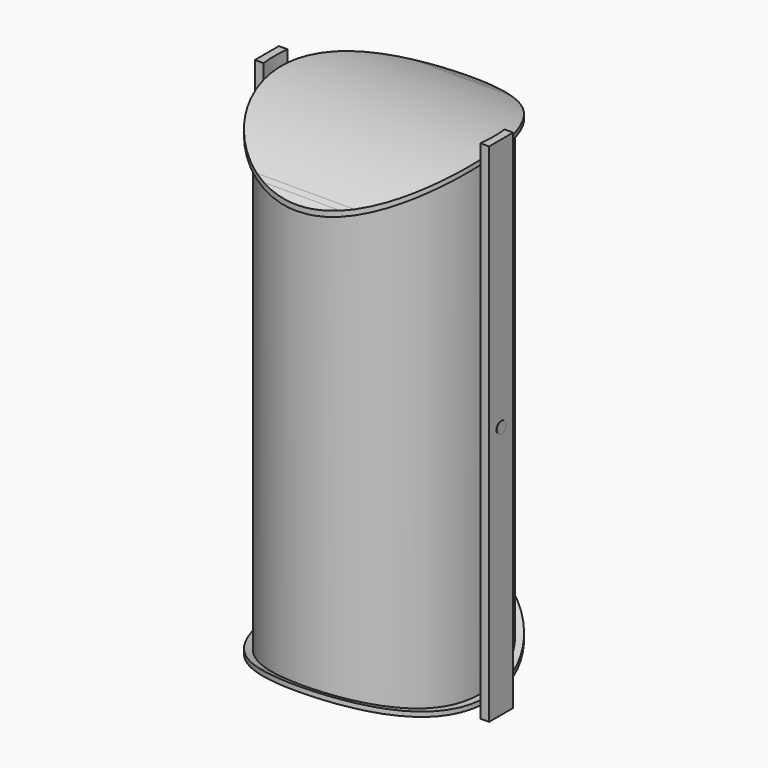
from build123d import *

# Parameters (mm, degrees)
F1_DEPTH = 50
F3_DEPTH = 150
F0_R     = 2.5
F5_DEPTH = 50
F6_DEPTH = 110
F7_DEPTH = 90
F8_DEPTH = 51


with BuildPart() as f1:
    # F0 (on Right) → F1 (new body, symmetric)
    with BuildSketch(Plane.YZ):
        with BuildLine():
            Line((-57.5, 87.856416954), (-57.5, 85.4561290956))
            ThreePointArc((-57.5, 85.4561290956), (-56.0084333196, 86.4410515732), (-54.5, 87.3999427917))
            Line((-54.5, 87.3999427917), (-54.5, 89.748259036))
            ThreePointArc((-54.5, 89.748259036), (-56.0079884179, 88.8150056769), (-57.5, 87.856416954))
        make_face()
        with BuildLine():
            Line((-54.5, 89.748259036), (-54.5, 87.3999427917))
            ThreePointArc((-54.5, 87.3999427917), (-53.5034535601, 88.0135242855), (-52.5, 88.6157435222))
            Line((-52.5, 88.6157435222), (-52.5, 90.9326673974))
            ThreePointArc((-52.5, 90.9326673974), (-53.5032775238, 90.3459976657), (-54.5, 89.748259036))
        make_face()
        with BuildLine():
            Line((-52.5, 90.9326673974), (-52.5, 88.6157435222))
            ThreePointArc((-52.5, 88.6157435222), (-10.9911177379, 102.4118905737), (32.5, 97.7381706397))
            Line((32.5, 97.7381706397), (32.5, 99.8436277386))
            ThreePointArc((32.5, 99.8436277386), (-10.947662013, 104.4277199619), (-52.5, 90.9326673974))
        make_face()
        with BuildLine():
            Line((32.5, 99.8436277386), (32.5, 97.7381706397))
            ThreePointArc((32.5, 97.7381706397), (33.5017657821, 97.3993413195), (34.5, 97.0502447189))
            Line((34.5, 97.0502447189), (34.5, 99.1703080564))
            ThreePointArc((34.5, 99.1703080564), (33.5016915968, 99.5119925444), (32.5, 99.8436277386))
        make_face()
        with BuildLine():
            Line((34.5, 99.1703080564), (34.5, 97.0502447189))
            ThreePointArc((34.5, 97.0502447189), (36.0043496943, 96.5022632019), (37.5, 95.9309647611))
            Line((37.5, 95.9309647611), (37.5, 98.0752262297))
            ThreePointArc((37.5, 98.0752262297), (36.0041636627, 98.6341735858), (34.5, 99.1703080564))
        make_face()
    extrude(amount=F1_DEPTH, both=True)


with BuildPart() as f1b:
    # F0 (on Right) → F1, piece 2 (new body, symmetric)
    with BuildSketch(Plane.YZ):
        with BuildLine():
            ThreePointArc((37.5, -85.4561290956), (36.0084333196, -86.4410515732), (34.5, -87.3999427917))
            Line((34.5, -87.3999427917), (34.5, -89.748259036))
            ThreePointArc((34.5, -89.748259036), (36.0079884179, -88.8150056769), (37.5, -87.856416954))
            Line((37.5, -87.856416954), (37.5, -85.4561290956))
        make_face()
        with BuildLine():
            ThreePointArc((34.5, -87.3999427917), (33.5034535601, -88.0135242855), (32.5, -88.6157435222))
            Line((32.5, -88.6157435222), (32.5, -90.9326673974))
            ThreePointArc((32.5, -90.9326673974), (33.5032775238, -90.3459976657), (34.5, -89.748259036))
            Line((34.5, -89.748259036), (34.5, -87.3999427917))
        make_face()
        with BuildLine():
            ThreePointArc((32.5, -88.6157435222), (-9.0088822621, -102.4118905737), (-52.5, -97.7381706397))
            Line((-52.5, -97.7381706397), (-52.5, -99.8436277386))
            ThreePointArc((-52.5, -99.8436277386), (-9.052337987, -104.4277199619), (32.5, -90.9326673974))
            Line((32.5, -90.9326673974), (32.5, -88.6157435222))
        make_face()
        with BuildLine():
            Line((-54.5, -99.1703080564), (-54.5, -97.0502447189))
            ThreePointArc((-54.5, -97.0502447189), (-56.0043496943, -96.5022632019), (-57.5, -95.9309647611))
            Line((-57.5, -95.9309647611), (-57.5, -98.0752262297))
            ThreePointArc((-57.5, -98.0752262297), (-56.0041636627, -98.6341735858), (-54.5, -99.1703080564))
        make_face()
        with BuildLine():
            ThreePointArc((-52.5, -97.7381706397), (-53.5017657821, -97.3993413195), (-54.5, -97.0502447189))
            Line((-54.5, -97.0502447189), (-54.5, -99.1703080564))
            ThreePointArc((-54.5, -99.1703080564), (-53.5016915968, -99.5119925444), (-52.5, -99.8436277386))
            Line((-52.5, -99.8436277386), (-52.5, -97.7381706397))
        make_face()
    extrude(amount=F1_DEPTH, both=True)


with BuildPart() as f3_tool:
    # F2 (on Top) → F3 (new body, symmetric)
    with BuildSketch(Plane.XY):
        with BuildLine():
            ThreePointArc((47.0510721907, -16.5151059628), (47.3876351439, -13.2652772426), (47.5, -10))
            ThreePointArc((47.5, -10), (47.3876351439, -6.7347227574), (47.0510721907, -3.4848940372))
            Line((47.0510721907, -3.4848940372), (-47.0510721907, -3.4848940372))
            ThreePointArc((-47.0510721907, -3.4848940372), (-47.5, -10), (-47.0510721907, -16.5151059628))
            Line((-47.0510721907, -16.5151059628), (47.0510721907, -16.5151059628))
        make_face()
        with BuildLine():
            ThreePointArc((-47.0510721907, -16.5151059628), (0, -57.5), (47.0510721907, -16.5151059628))
            Line((47.0510721907, -16.5151059628), (-47.0510721907, -16.5151059628))
        make_face()
        with BuildLine():
            Line((-47.0510721907, -3.4848940372), (47.0510721907, -3.4848940372))
            ThreePointArc((47.0510721907, -3.4848940372), (0, 37.5), (-47.0510721907, -3.4848940372))
        make_face()
    extrude(amount=F3_DEPTH, both=True)


with BuildPart() as f1_1:
    add(f1.part)

    # F3: intersect by f3_tool
    add(f3_tool.part, mode=Mode.INTERSECT)



with BuildPart() as f1b_1:
    add(f1b.part)

    # F3: intersect by f3_tool
    add(f3_tool.part, mode=Mode.INTERSECT)


with BuildPart() as f4:
    # F0 (on Right) → F4 (revolve)
    with BuildSketch(Plane.YZ):
        with BuildLine():
            Line((32.5, 114.9460300803), (32.5, 99.8436277386))
            ThreePointArc((32.5, 99.8436277386), (33.5016915968, 99.5119925444), (34.5, 99.1703080564))
            Line((34.5, 99.1703080564), (34.5, 114.9460300803))
            Line((34.5, 114.9460300803), (32.5, 114.9460300803))
        make_face()
        with BuildLine():
            ThreePointArc((34.5, 97.0502447189), (33.5017657821, 97.3993413195), (32.5, 97.7381706397))
            Line((32.5, 97.7381706397), (32.5, -88.6157435222))
            ThreePointArc((32.5, -88.6157435222), (33.5034535601, -88.0135242855), (34.5, -87.3999427917))
            Line((34.5, -87.3999427917), (34.5, 97.0502447189))
        make_face()
        with BuildLine():
            Line((32.5, 99.8436277386), (32.5, 97.7381706397))
            ThreePointArc((32.5, 97.7381706397), (33.5017657821, 97.3993413195), (34.5, 97.0502447189))
            Line((34.5, 97.0502447189), (34.5, 99.1703080564))
            ThreePointArc((34.5, 99.1703080564), (33.5016915968, 99.5119925444), (32.5, 99.8436277386))
        make_face()
        with BuildLine():
            ThreePointArc((34.5, -87.3999427917), (33.5034535601, -88.0135242855), (32.5, -88.6157435222))
            Line((32.5, -88.6157435222), (32.5, -90.9326673974))
            ThreePointArc((32.5, -90.9326673974), (33.5032775238, -90.3459976657), (34.5, -89.748259036))
            Line((34.5, -89.748259036), (34.5, -87.3999427917))
        make_face()
        with BuildLine():
            ThreePointArc((34.5, -89.748259036), (33.5032775238, -90.3459976657), (32.5, -90.9326673974))
            Line((32.5, -90.9326673974), (32.5, -118.0362924933))
            Line((32.5, -118.0362924933), (34.5, -118.0362924933))
            Line((34.5, -118.0362924933), (34.5, -89.748259036))
        make_face()
    revolve(axis=Axis((0, -10, 255.5446075276), (0, 0, 1)))

    # F0 (on Right) → F5 (intersect, symmetric)
    with BuildSketch(Plane.YZ):
        with BuildLine():
            ThreePointArc((32.5, 97.7381706397), (-10.9911177379, 102.4118905737), (-52.5, 88.6157435222))
            Line((-52.5, 88.6157435222), (-52.5, -97.7381706397))
            ThreePointArc((-52.5, -97.7381706397), (-9.0088822621, -102.4118905737), (32.5, -88.6157435222))
            Line((32.5, -88.6157435222), (32.5, 97.7381706397))
        make_face()
        with Locations((-10, 0)):
            Circle(F0_R, mode=Mode.SUBTRACT)
        with BuildLine():
            ThreePointArc((-52.5, 88.6157435222), (-53.5034535601, 88.0135242855), (-54.5, 87.3999427917))
            Line((-54.5, 87.3999427917), (-54.5, -97.0502447189))
            ThreePointArc((-54.5, -97.0502447189), (-53.5017657821, -97.3993413195), (-52.5, -97.7381706397))
            Line((-52.5, -97.7381706397), (-52.5, 88.6157435222))
        make_face()
        with BuildLine():
            ThreePointArc((34.5, 97.0502447189), (33.5017657821, 97.3993413195), (32.5, 97.7381706397))
            Line((32.5, 97.7381706397), (32.5, -88.6157435222))
            ThreePointArc((32.5, -88.6157435222), (33.5034535601, -88.0135242855), (34.5, -87.3999427917))
            Line((34.5, -87.3999427917), (34.5, 97.0502447189))
        make_face()
        with Locations((-10, 0)):
            Circle(F0_R)
    extrude(amount=F5_DEPTH, both=True, mode=Mode.INTERSECT)


with BuildPart() as f1_2:
    add(f1_1.part)

    add(f1b_1.part)  # F6 merges F1b
    # F2 (on Top) → F6 (join, symmetric)
    with BuildSketch(Plane.XY):
        with BuildLine():
            ThreePointArc((-47.0510721907, -16.5151059628), (-47.5, -10), (-47.0510721907, -3.4848940372))
            Line((-47.0510721907, -3.4848940372), (-50.8516021073, -3.4848940372))
            Line((-50.8516021073, -3.4848940372), (-50.8516021073, -16.5151059628))
            Line((-50.8516021073, -16.5151059628), (-47.0510721907, -16.5151059628))
        make_face()
        with BuildLine():
            ThreePointArc((47.0510721907, -3.4848940372), (47.3876351439, -6.7347227574), (47.5, -10))
            ThreePointArc((47.5, -10), (47.3876351439, -13.2652772426), (47.0510721907, -16.5151059628))
            Line((47.0510721907, -16.5151059628), (50.8516021073, -16.5151059628))
            Line((50.8516021073, -16.5151059628), (50.8516021073, -3.4848940372))
            Line((50.8516021073, -3.4848940372), (47.0510721907, -3.4848940372))
        make_face()
    extrude(amount=F6_DEPTH, both=True)


with BuildPart() as f7_tool:
    # F0 (on Right) → F7 (new body, symmetric)
    with BuildSketch(Plane.YZ):
        with Locations((-10, 0)):
            Circle(F0_R)
    extrude(amount=F7_DEPTH, both=True)


with BuildPart() as f1_3:
    add(f1_2.part)

    # F7: cut by f7_tool
    add(f7_tool.part, mode=Mode.SUBTRACT)


with BuildPart() as f4_1:
    add(f4.part)

    # F7: cut by f7_tool
    add(f7_tool.part, mode=Mode.SUBTRACT)

    # F0 (on Right) → F8 (join, symmetric)
    with BuildSketch(Plane.YZ):
        with Locations((-10, 0)):
            Circle(F0_R)
    extrude(amount=F8_DEPTH, both=True)


solid = Compound([f1_3.part, f4_1.part])
